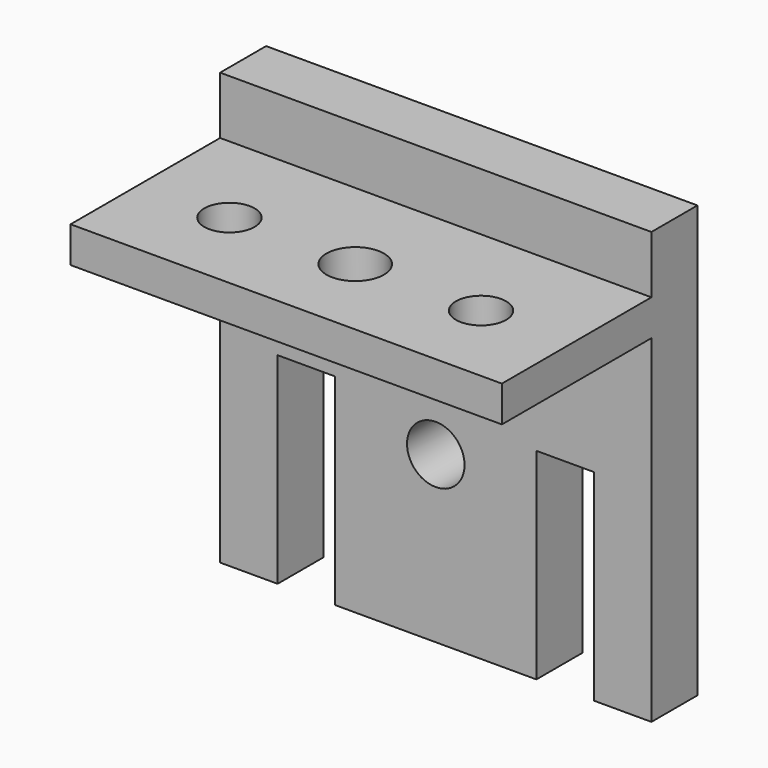
from build123d import *

# Parameters (mm, degrees)
F0_R     = 2
F1_DEPTH = 4
F2_W     = 30
F2_H     = 2.5
F3_DEPTH = 13
F4_R     = 1.75
F4_R_2   = 2
F5_DEPTH = 25


with BuildPart() as f1:
    # F0 (on Front) → F1 (new body)
    with BuildSketch(Plane.XZ):
        Polygon((11, -15), (15, -15), (15, 15), (-15, 15), (-15, -15), (-11, -15), (-11, -1), (-7, -1), (-7, -15), (7, -15), (7, -1), (11, -1), align=None)
        with Locations((0, -3.5)):
            Circle(F0_R, mode=Mode.SUBTRACT)
        with Locations((-4.5, 5.5)):
            Circle(F0_R, mode=Mode.SUBTRACT)
        with Locations((4.5, 5.5)):
            Circle(F0_R, mode=Mode.SUBTRACT)
    extrude(amount=F1_DEPTH)

    # F2 (on face) → F3 (join)
    with BuildSketch(Plane.XZ.offset(4)):
        with Locations((0, 9.75)):
            Rectangle(F2_W, F2_H)
    extrude(amount=F3_DEPTH)

    # F4 (on face) → F5 (cut)
    with BuildSketch(Plane(origin=(0, 0, 8.5), x_dir=(1, 0, 0), z_dir=(0, 0, -1))):
        with Locations((-8.75, 11)):
            Circle(F4_R)
        with Locations((0, 11)):
            Circle(F4_R_2)
        with Locations((8.75, 11)):
            Circle(F4_R)
    extrude(amount=-F5_DEPTH, mode=Mode.SUBTRACT)


solid = f1.part
